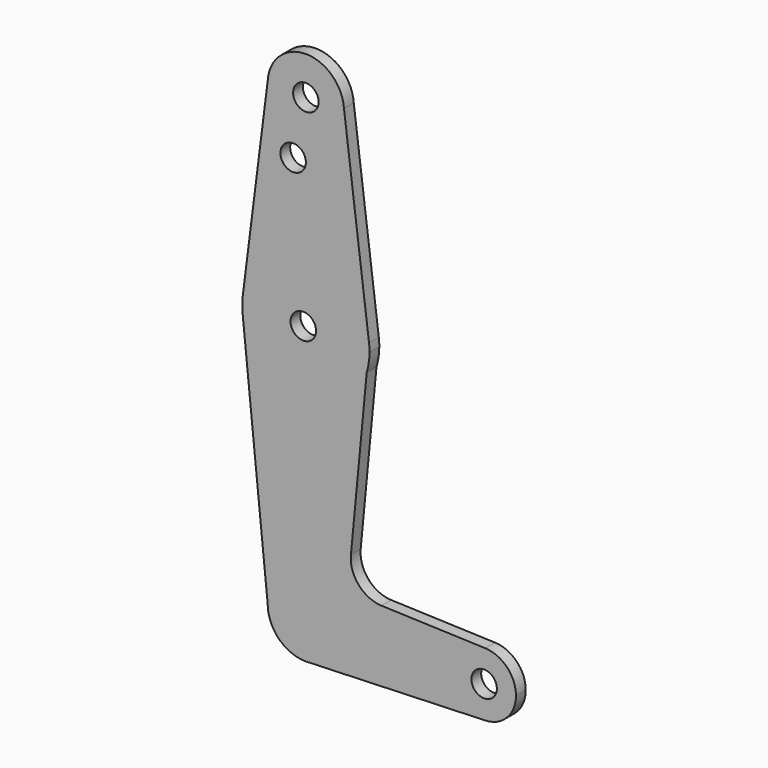
from build123d import *

# Parameters (mm, degrees)
F0_R     = 3.175
F1_DEPTH = 3.048


with BuildPart() as f1:
    # F0 (on Front) → F1 (new body)
    with BuildSketch(Plane.XZ):
        with BuildLine():
            Line((-9.5033099921, 114.9424361401), (-15.7498541672, 65.4894060301))
            ThreePointArc((-15.7498541672, 65.4894060301), (0.0001417787, 79.3749999994), (15.7498887195, 65.4891235967))
            Line((15.7498887195, 65.4891235967), (9.5022460762, 114.9579851876))
            ThreePointArc((9.5022460762, 114.9579851876), (9.5193098194, 114.6291892496), (9.525, 114.3))
            ThreePointArc((9.525, 114.3), (-0.3214010931, 104.7804240463), (-9.5033099921, 114.9424361401))
        make_face()
        with Locations((-3.175, 100.0252)):
            Circle(F0_R, mode=Mode.SUBTRACT)
        with BuildLine():
            ThreePointArc((0.6773435479, 9.500885786), (6.9705567315, 6.4912990883), (9.525, 0))
            Line((9.525, 0), (36.5125, 0))
            ThreePointArc((36.5125, 0), (38.9380895153, 5.7116327839), (44.7324052746, 7.9324746146))
            Line((44.7324052746, 7.9324746146), (18.8646164657, 8.8533978265))
            ThreePointArc((18.8646164657, 8.8533978265), (13.1706176896, 11.556153352), (11.233237345, 17.5539085064))
            Line((11.233237345, 17.5539085064), (15.1727269765, 58.8305284985))
            ThreePointArc((15.1727269765, 58.8305284985), (-1.3707508502, 47.6842904477), (-15.7498541672, 61.5105939699))
            Line((-15.7498541672, 61.5105939699), (-9.525, 0))
            ThreePointArc((-9.525, 0), (-6.7351920908, 6.7351920908), (0, 9.525))
            ThreePointArc((0, 9.525), (0.3388863295, 9.5189695375), (0.6773435479, 9.500885786))
        make_face()
        with BuildLine():
            ThreePointArc((-15.7498541672, 65.4894060301), (-15.87500056, 63.5), (-15.7498541672, 61.5105939699))
            ThreePointArc((-15.7498541672, 61.5105939699), (-1.3707508502, 47.6842904477), (15.1727269765, 58.8305284985))
            ThreePointArc((15.1727269765, 58.8305284985), (15.6984495966, 61.1390070565), (15.87499944, 63.5))
            ThreePointArc((15.87499944, 63.5), (15.8436908866, 64.4965271415), (15.7498887195, 65.4891235967))
            ThreePointArc((15.7498887195, 65.4891235967), (0.0001417787, 79.3749999994), (-15.7498541672, 65.4894060301))
        make_face()
        with Locations((-0.637914869, 63.8675838709)):
            Circle(F0_R, mode=Mode.SUBTRACT)
        with BuildLine():
            ThreePointArc((9.5022460762, 114.9579851876), (-0.0077927016, 123.8249968123), (-9.5033099921, 114.9424361401))
            ThreePointArc((-9.5033099921, 114.9424361401), (-0.3214010931, 104.7804240463), (9.525, 114.3))
            ThreePointArc((9.525, 114.3), (9.5193098194, 114.6291892496), (9.5022460762, 114.9579851876))
        make_face()
        with Locations((0, 114.3)):
            Circle(F0_R, mode=Mode.SUBTRACT)
        with BuildLine():
            ThreePointArc((0.6773435479, -9.500885786), (6.9705567315, -6.4912990883), (9.525, 0))
            ThreePointArc((9.525, 0), (6.9705567315, 6.4912990883), (0.6773435479, 9.500885786))
            Line((0.6773435479, 9.500885786), (0, 9.525))
            ThreePointArc((0, 9.525), (-6.7351920908, 6.7351920908), (-9.525, 0))
            ThreePointArc((-9.525, 0), (-6.7351920908, -6.7351920908), (0, -9.525))
            Line((0, -9.525), (0.6773435479, -9.500885786))
        make_face()
        with BuildLine():
            Line((36.5125, 0), (9.525, 0))
            ThreePointArc((9.525, 0), (6.9705567315, -6.4912990883), (0.6773435479, -9.500885786))
            Line((0.6773435479, -9.500885786), (44.7324052746, -7.9324746146))
            ThreePointArc((44.7324052746, -7.9324746146), (38.9380895153, -5.7116327839), (36.5125, 0))
        make_face()
        with BuildLine():
            ThreePointArc((44.7324052746, 7.9324746146), (38.9380895153, 5.7116327839), (36.5125, 0))
            ThreePointArc((36.5125, 0), (38.9380895153, -5.7116327839), (44.7324052746, -7.9324746146))
            ThreePointArc((44.7324052746, -7.9324746146), (50.1616327839, -5.5119104847), (52.3875, 0))
            ThreePointArc((52.3875, 0), (50.1616327839, 5.5119104847), (44.7324052746, 7.9324746146))
        make_face()
        with BuildLine():
            ThreePointArc((47.625, 0), (44.45, -3.175), (41.275, 0))
            ThreePointArc((41.275, 0), (44.45, 3.175), (47.625, 0))
        make_face(mode=Mode.SUBTRACT)
    extrude(amount=F1_DEPTH)


solid = f1.part
